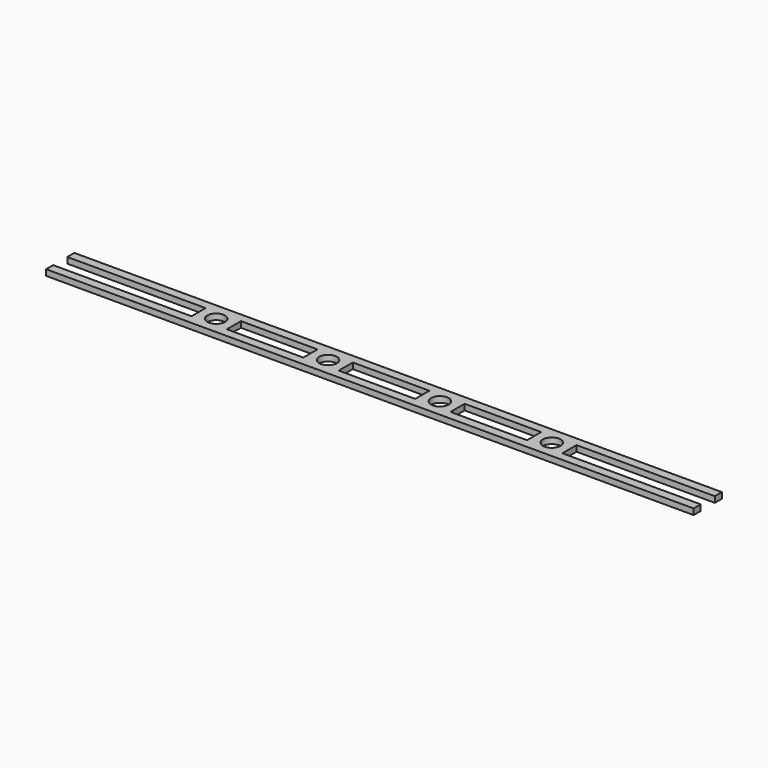
from build123d import *

# Parameters (mm, degrees)
F0_R     = 1.5
F0_W     = 13
F0_H     = 3
F1_DEPTH = 1


with BuildPart() as f1:
    # F0 (on Top) → F1 (new body)
    with BuildSketch(Plane.XY):
        Polygon((0, 1.5), (0, 3), (-55, 3), (-55, 1.5), (-31.5, 1.5), (-31.5, -1.5), (-55, -1.5), (-55, -3), (0, -3), (0, -1.5), (-6.5, -1.5), (-6.5, 1.5), align=None)
        with Locations((-28.5, 0)):
            Circle(F0_R, mode=Mode.SUBTRACT)
        with Locations((-19, 0)):
            Rectangle(F0_W, F0_H, mode=Mode.SUBTRACT)
        with Locations((-9.5, 0)):
            Circle(F0_R, mode=Mode.SUBTRACT)
        Polygon((55, 3), (0, 3), (0, 1.5), (6.5, 1.5), (6.5, -1.5), (0, -1.5), (0, -3), (55, -3), (55, -1.5), (31.5, -1.5), (31.5, 1.5), (55, 1.5), align=None)
        with Locations((9.5, 0)):
            Circle(F0_R, mode=Mode.SUBTRACT)
        with Locations((19, 0)):
            Rectangle(F0_W, F0_H, mode=Mode.SUBTRACT)
        with Locations((28.5, 0)):
            Circle(F0_R, mode=Mode.SUBTRACT)
    extrude(amount=F1_DEPTH)


solid = f1.part
